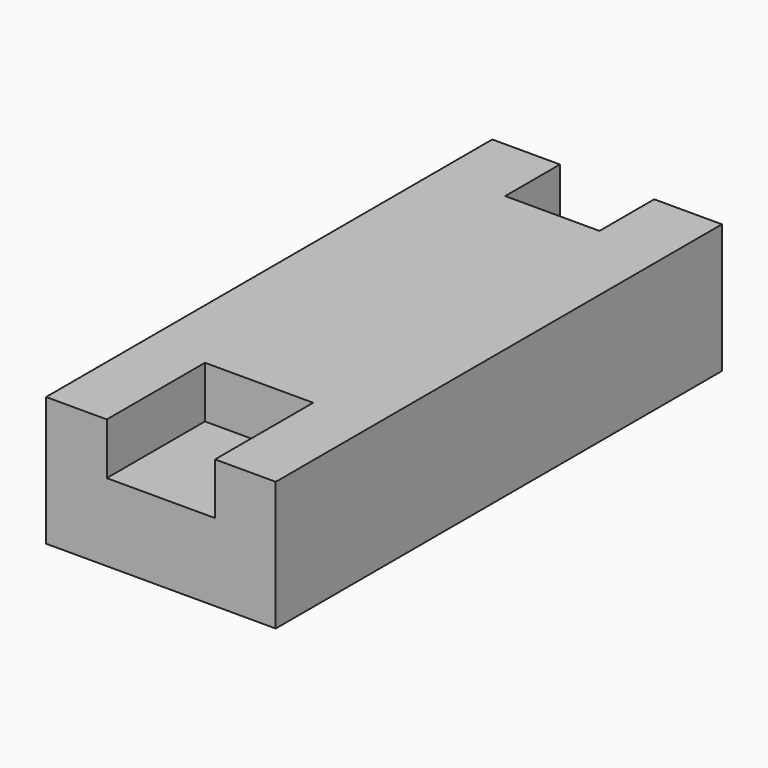
from build123d import *

# Parameters (mm, degrees)
F0_W     = 17.78
F0_H     = 43.18
F1_DEPTH = 1.5
F3_DEPTH = 8.5
F4_DEPTH = 4.5


with BuildPart() as f1:
    # F0 (on Top) → F1 (new body)
    with BuildSketch(Plane.XY):
        Rectangle(F0_W, F0_H)
    extrude(amount=F1_DEPTH)

    # F2 (on face) → F3 (join)
    with BuildSketch(Plane.XY.offset(1.5)):
        Polygon((-3.65, 16.29), (-3.65, 21.59), (-8.89, 21.59), (-8.89, -21.59), (-4.19, -21.59), (-4.19, -12.09), (4.19, -12.09), (4.19, -21.59), (8.89, -21.59), (8.89, 21.59), (3.65, 21.59), (3.65, 16.29), align=None)
    extrude(amount=F3_DEPTH)

    # F4 (add): a face of the model
    f4_faces = [f1.faces().sort_by_distance(p)[0] for p in [
        (0, -16.84, 1.5),
    ]]
    extrude(f4_faces, amount=F4_DEPTH)


solid = f1.part
